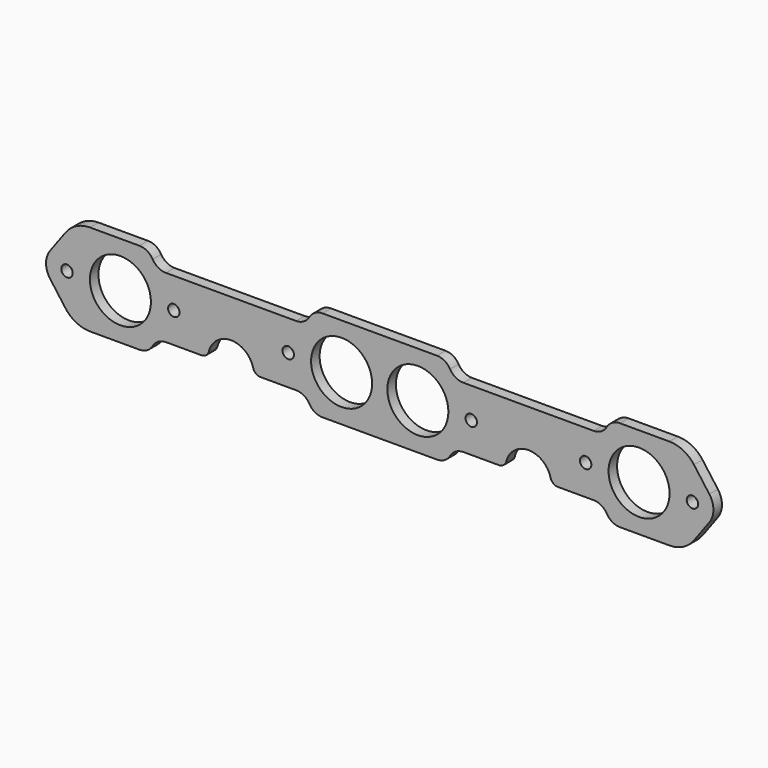
from build123d import *

# Parameters (mm, degrees)
F0_R     = 4.7625
F0_R_2   = 25.4
F1_DEPTH = 8.89


with BuildPart() as f1:
    # F0 (on Front) → F1 (new body)
    with BuildSketch(Plane.XZ):
        with BuildLine():
            Line((-200.025, 38.1), (-241.153018, 38.1))
            ThreePointArc((-241.153018, 38.1), (-247.809113, 37.212372), (-254, 34.611528))
            ThreePointArc((-254, 34.611528), (-258.156009, 31.569507), (-261.612925, 27.751651))
            Line((-261.612925, 27.751651), (-274.416186, 10.34801))
            ThreePointArc((-274.416186, 10.34801), (-277.8125, 0), (-274.416186, -10.34801))
            Line((-274.416186, -10.34801), (-261.612925, -27.751651))
            ThreePointArc((-261.612925, -27.751651), (-258.156009, -31.569507), (-254, -34.611528))
            ThreePointArc((-254, -34.611528), (-247.809113, -37.212372), (-241.153018, -38.1))
            Line((-241.153018, -38.1), (-200.025, -38.1))
            ThreePointArc((-200.025, -38.1), (-193.675, -36.398523), (-189.026477, -31.75))
            ThreePointArc((-189.026477, -31.75), (-184.377955, -27.101477), (-178.027955, -25.4))
            Line((-178.027955, -25.4), (-148.418444, -25.4))
            ThreePointArc((-148.418444, -25.4), (-144.529879, -24.070116), (-142.270083, -20.6375))
            ThreePointArc((-142.270083, -20.6375), (-123.825, -6.35), (-105.379917, -20.6375))
            ThreePointArc((-105.379917, -20.6375), (-103.120121, -24.070116), (-99.231556, -25.4))
            Line((-99.231556, -25.4), (-69.622045, -25.4))
            ThreePointArc((-69.622045, -25.4), (-63.272045, -27.101477), (-58.623523, -31.75))
            ThreePointArc((-58.623523, -31.75), (-53.975, -36.398523), (-47.625, -38.1))
            Line((-47.625, -38.1), (47.625, -38.1))
            ThreePointArc((47.625, -38.1), (53.975, -36.398523), (58.623523, -31.75))
            ThreePointArc((58.623523, -31.75), (63.272045, -27.101477), (69.622045, -25.4))
            Line((69.622045, -25.4), (99.231556, -25.4))
            ThreePointArc((99.231556, -25.4), (103.120121, -24.070116), (105.379917, -20.6375))
            ThreePointArc((105.379917, -20.6375), (123.825, -6.35), (142.270083, -20.6375))
            ThreePointArc((142.270083, -20.6375), (144.529879, -24.070116), (148.418444, -25.4))
            Line((148.418444, -25.4), (178.027955, -25.4))
            ThreePointArc((178.027955, -25.4), (184.377955, -27.101477), (189.026477, -31.75))
            ThreePointArc((189.026477, -31.75), (193.675, -36.398523), (200.025, -38.1))
            Line((200.025, -38.1), (241.153018, -38.1))
            ThreePointArc((241.153018, -38.1), (252.61705, -35.365744), (261.612925, -27.751651))
            Line((261.612925, -27.751651), (274.416186, -10.34801))
            ThreePointArc((274.416186, -10.34801), (277.8125, 0), (274.416186, 10.34801))
            Line((274.416186, 10.34801), (261.612925, 27.751651))
            ThreePointArc((261.612925, 27.751651), (252.61705, 35.365744), (241.153018, 38.1))
            Line((241.153018, 38.1), (200.025, 38.1))
            ThreePointArc((200.025, 38.1), (193.675, 36.398523), (189.026477, 31.75))
            ThreePointArc((189.026477, 31.75), (184.377955, 27.101477), (178.027955, 25.4))
            Line((178.027955, 25.4), (69.622045, 25.4))
            ThreePointArc((69.622045, 25.4), (63.272045, 27.101477), (58.623523, 31.75))
            ThreePointArc((58.623523, 31.75), (53.975, 36.398523), (47.625, 38.1))
            Line((47.625, 38.1), (-47.625, 38.1))
            ThreePointArc((-47.625, 38.1), (-53.975, 36.398523), (-58.623523, 31.75))
            ThreePointArc((-58.623523, 31.75), (-63.272045, 27.101477), (-69.622045, 25.4))
            Line((-69.622045, 25.4), (-178.027955, 25.4))
            ThreePointArc((-178.027955, 25.4), (-184.377955, 27.101477), (-189.026477, 31.75))
            ThreePointArc((-189.026477, 31.75), (-193.675, 36.398523), (-200.025, 38.1))
        make_face()
        with Locations((-260.35, 0)):
            Circle(F0_R, mode=Mode.SUBTRACT)
        with Locations((-215.9, 0)):
            Circle(F0_R_2, mode=Mode.SUBTRACT)
        with Locations((-171.45, 0)):
            Circle(F0_R, mode=Mode.SUBTRACT)
        with Locations((-76.2, 0)):
            Circle(F0_R, mode=Mode.SUBTRACT)
        with Locations((-31.75, 0)):
            Circle(F0_R_2, mode=Mode.SUBTRACT)
        with Locations((31.75, 0)):
            Circle(F0_R_2, mode=Mode.SUBTRACT)
        with Locations((76.2, 0)):
            Circle(F0_R, mode=Mode.SUBTRACT)
        with Locations((171.45, 0)):
            Circle(F0_R, mode=Mode.SUBTRACT)
        with Locations((215.9, 0)):
            Circle(F0_R_2, mode=Mode.SUBTRACT)
        with Locations((260.35, 0)):
            Circle(F0_R, mode=Mode.SUBTRACT)
    extrude(amount=F1_DEPTH)


solid = f1.part
